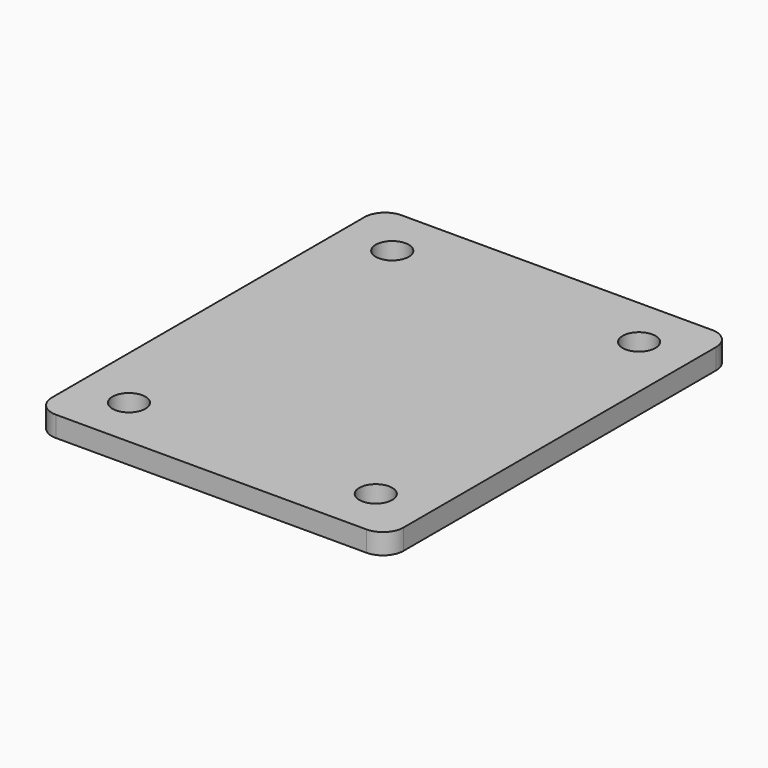
from build123d import *

# Parameters (mm, degrees)
F0_W     = 34.2
F0_H     = 42
F0_R     = 1.6
F1_DEPTH = 2
F2_R     = 2


with BuildPart() as f1:
    # F0 (on Top) → F1 (new body)
    with BuildSketch(Plane.XY):
        Rectangle(F0_W, F0_H)
        with Locations((-12, -16)):
            Circle(F0_R, mode=Mode.SUBTRACT)
        with Locations((12, -16)):
            Circle(F0_R, mode=Mode.SUBTRACT)
        with Locations((-12, 16)):
            Circle(F0_R, mode=Mode.SUBTRACT)
        with Locations((12, 16)):
            Circle(F0_R, mode=Mode.SUBTRACT)
    extrude(amount=F1_DEPTH)

    # F2
    f2_edges = [f1.edges().sort_by_distance(p)[0] for p in [
        (-17.1, 21, 1),
        (-17.1, -21, 1),
        (17.1, -21, 1),
        (17.1, 21, 1),
    ]]
    fillet(f2_edges, radius=F2_R)


solid = f1.part
